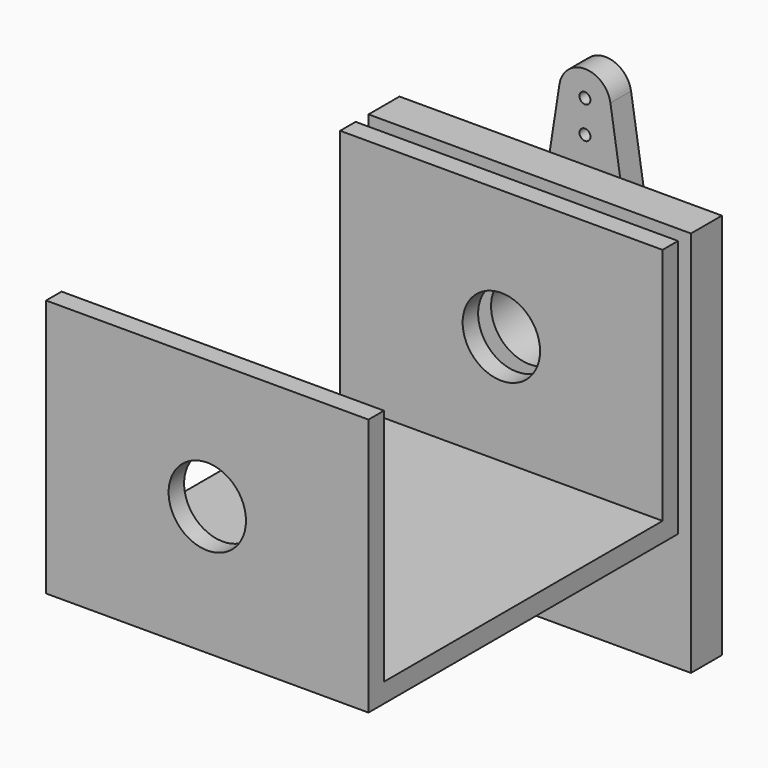
from build123d import *

# Parameters (mm, degrees)
F0_R     = 0.425
F1_DEPTH = 2
F0_R_2   = 2.75
F2_DEPTH = 4
F3_W     = 30
F3_H     = 20
F4_DEPTH = 12.5
F5_T     = -1.5
F3_W_2   = 3
F3_H_2   = 30
F6_DEPTH = 12.5
F7_R     = 3
F8_DEPTH = 38.60219


with BuildPart() as f1:
    # F0 (on Front) → F1 (new body)
    with BuildSketch(Plane.XZ):
        with BuildLine():
            ThreePointArc((-3.952379, 0.615385), (0, 4), (3.952379, 0.615385))
            Line((3.952379, 0.615385), (1.97619, 13.307692))
            ThreePointArc((1.97619, 13.307692), (1.994039, 13.154306), (2, 13))
            ThreePointArc((2, 13), (-0.154306, 11.005961), (-1.97619, 13.307692))
            Line((-1.97619, 13.307692), (-3.952379, 0.615385))
        make_face()
        with Locations((0, 8)):
            Circle(F0_R, mode=Mode.SUBTRACT)
        with Locations((0, 10.5)):
            Circle(F0_R, mode=Mode.SUBTRACT)
        with BuildLine():
            ThreePointArc((2, 13), (1.994039, 13.154306), (1.97619, 13.307692))
            ThreePointArc((1.97619, 13.307692), (0, 15), (-1.97619, 13.307692))
            ThreePointArc((-1.97619, 13.307692), (-0.154306, 11.005961), (2, 13))
        make_face()
        with Locations((0, 13)):
            Circle(F0_R, mode=Mode.SUBTRACT)
    extrude(amount=F1_DEPTH)

    # F0 (on Front) → F2 (join)
    with BuildSketch(Plane.XZ):
        with BuildLine():
            ThreePointArc((-3.952379, 0.615385), (-0.308612, -3.988077), (4, 0))
            ThreePointArc((4, 0), (3.988077, 0.308612), (3.952379, 0.615385))
            ThreePointArc((3.952379, 0.615385), (0, 4), (-3.952379, 0.615385))
        make_face()
        Circle(F0_R_2, mode=Mode.SUBTRACT)
    extrude(amount=F2_DEPTH)


with BuildPart() as f4:
    # F3 (on Right) → F4 (new body, symmetric)
    with BuildSketch(Plane.YZ):
        with Locations((-23.60119, 0)):
            Rectangle(F3_W, F3_H)
    extrude(amount=F4_DEPTH, both=True)

    # F5
    f5_openings = [f4.faces().sort_by_distance(p)[0] for p in [
        (12.5, -23.60119, 0),
        (0, -23.60119, 10),
        (-12.5, -23.60119, 0),
    ]]
    offset(amount=F5_T, openings=f5_openings)


with BuildPart() as f6:
    # F3 (on Right) → F6 (new body, symmetric)
    with BuildSketch(Plane.YZ):
        with Locations((-5.849203, -5)):
            Rectangle(F3_W_2, F3_H_2)
    extrude(amount=F6_DEPTH, both=True)


with BuildPart() as f8:
    # F7 (on face) → F8 (new body, through all)
    with BuildSketch(Plane.XZ.offset(38.60119)):
        Circle(F7_R)
    extrude(amount=-F8_DEPTH)


with BuildPart() as f4_1:
    add(f4.part)

    # F9: cut F8
    add(f8.part, mode=Mode.SUBTRACT)


with BuildPart() as f6_1:
    add(f6.part)

    # F9: cut F8
    add(f8.part, mode=Mode.SUBTRACT)


solid = Compound([f1.part, f4_1.part, f6_1.part])
